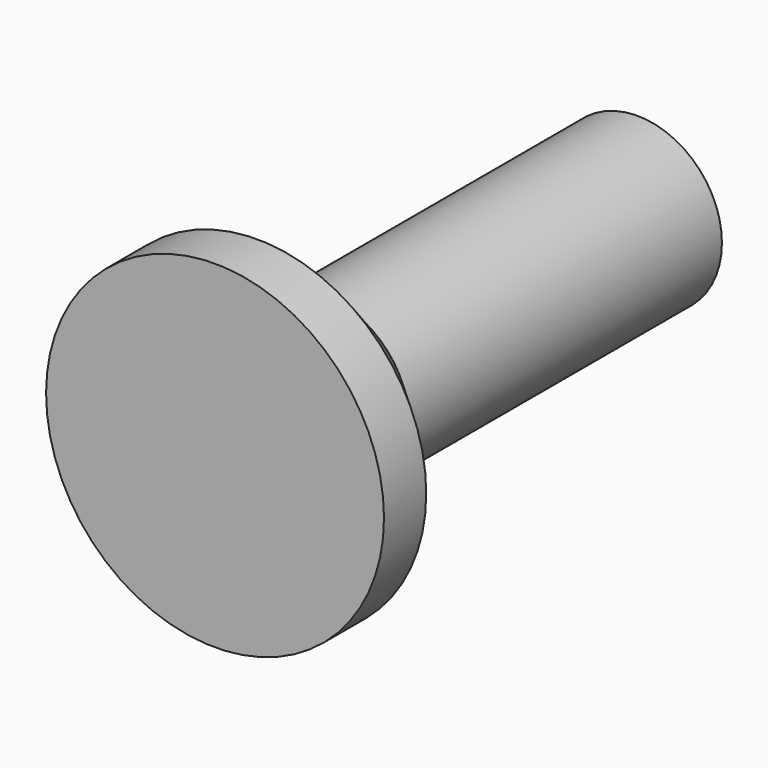
from build123d import *

# Parameters (mm, degrees)
CYLINDER_R        = 1.6
CYLINDER_DEPTH    = 10
CYLINDER001_R     = 3.2
CYLINDER001_DEPTH = 3
CHAMFER_SIZE      = 2


with BuildPart() as cylinder:
    # Cylinder → Cylinder (new body)
    with BuildSketch(Plane.XZ):
        Circle(CYLINDER_R)
    extrude(amount=CYLINDER_DEPTH)


with BuildPart() as screw_template:
    # Cylinder001 → Cylinder001 (new body)
    with BuildSketch(Plane.XZ):
        Circle(CYLINDER001_R)
    extrude(amount=CYLINDER001_DEPTH)

    # Chamfer
    chamfer_edges = [screw_template.edges().sort_by_distance(p)[0] for p in [
        (-3.2, 0, 0),
    ]]
    chamfer(chamfer_edges, length=CHAMFER_SIZE)


with BuildPart() as screw_template_1:
    # Chamfer placement: moved
    add(screw_template.part.moved(Location((0, -7, 0))))

    # Fusion: union Cylinder
    add(cylinder.part)


solid = screw_template_1.part
